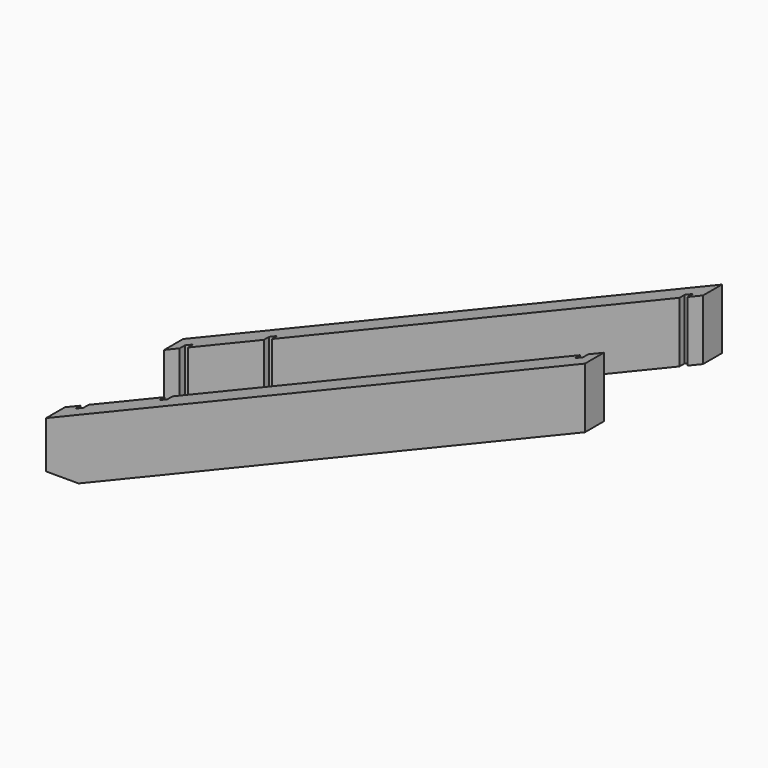
from build123d import *

# Parameters (mm, degrees)
F1_DEPTH = 38
F3_DEPTH = 10.5


with BuildPart() as f1:
    # F0 (on Front) → F1 (new body)
    with BuildSketch(Plane.XZ):
        Polygon((0, 75.7), (0, 0), (52.4253670061, 0), (868.4467605606, 338.0071283969), (868.4467605606, 435.4224264232), align=None)
    extrude(amount=-F1_DEPTH)

    # F2 (on face) → F3 (cut)
    with BuildSketch(Plane.XZ):
        Polygon((843.4467605606, 425.0670873639), (830.4467605606, 419.682311053), (830.4467605606, 322.2670130267), (843.4467605606, 327.6517893375), align=None)
        Polygon((173.4467605606, 50.1287025476), (173.4467605606, 147.5440005739), (160.4467605606, 142.159224263), (160.4467605606, 44.7439262367), align=None)
        Polygon((25, 0), (38, 0), (38, 91.4401153702), (25, 86.0553390593), align=None)
    extrude(amount=-F3_DEPTH, mode=Mode.SUBTRACT)


with BuildPart() as f5_1:
    # F5: instance of F1
    add(f1.part.mirror(Plane(origin=(501.9467605606, -100, 234.9055068003), x_dir=(1, 0, 0), z_dir=(0, -1, 0))))


solid = Compound([f1.part, f5_1.part])
